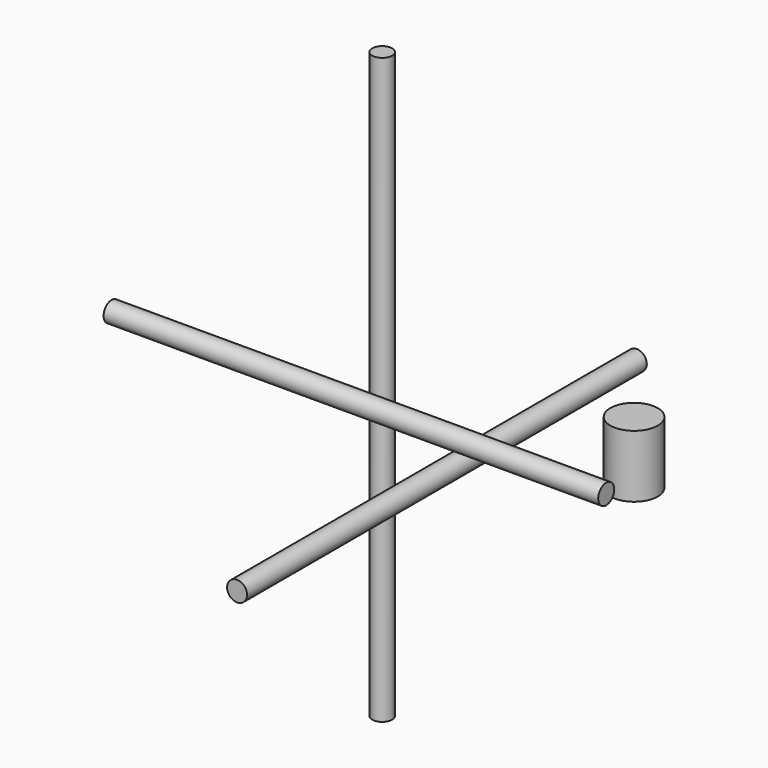
from build123d import *

# Parameters (mm, degrees)
F0_R     = 4
F1_DEPTH = 100
F2_R     = 4
F3_DEPTH = 117
F4_R     = 4
F5_DEPTH = 99
F6_R     = 9.5
F7_DEPTH = 25


with BuildPart() as f1:
    # F0 (on Front) → F1 (new body, symmetric)
    with BuildSketch(Plane.XZ):
        Circle(F0_R)
    extrude(amount=F1_DEPTH, both=True)


with BuildPart() as f3:
    # F2 (on Top) → F3 (new body, symmetric)
    with BuildSketch(Plane.XY):
        with Locations((-52.1620251238, 37.7985686064)):
            Circle(F2_R)
    extrude(amount=F3_DEPTH, both=True)


with BuildPart() as f5:
    # F4 (on Right) → F5 (new body, symmetric)
    with BuildSketch(Plane.YZ):
        with Locations((-39.0593670309, 41.6442379355)):
            Circle(F4_R)
    extrude(amount=F5_DEPTH, both=True)


with BuildPart() as f7:
    # F6 (on Top) → F7 (new body)
    with BuildSketch(Plane.XY):
        with Locations((53.201507777, 32.138068229)):
            Circle(F6_R)
    extrude(amount=F7_DEPTH)


solid = Compound([f1.part, f3.part, f5.part, f7.part])
